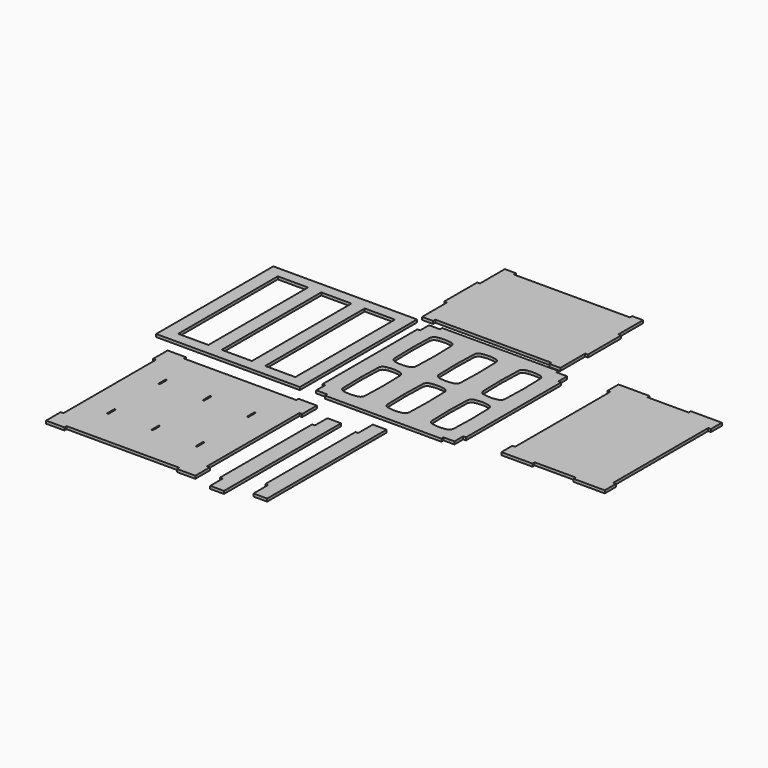
from build123d import *

# Parameters (mm, degrees)
F1_DEPTH  = 3
F2_W      = 157
F2_H      = 160
F2_W_2    = 33
F2_H_2    = 136
F3_DEPTH  = 3
F4_W      = 1.5
F4_H      = 10
F5_DEPTH  = 3
F7_DEPTH  = 3
F9_DEPTH  = 3
F11_DEPTH = 3
F13_DEPTH = 3


with BuildPart() as f1:
    # F0 (on Top) → F1 (new body)
    with BuildSketch(Plane.XY):
        Polygon((112, 115), (-15, 115), (-15, 112), (-27, 112), (-27, 100), (-30, 100), (-30, -30), (-27, -30), (-27, -42), (-15, -42), (-15, -45), (112, -45), (112, -42), (124, -42), (124, -30), (127, -30), (127, 100), (124, 100), (124, 112), (112, 112), align=None)
        with BuildLine():
            Line((-7.700771, 28.68923), (-5.03398, 29.143152))
            ThreePointArc((-5.03398, 29.143152), (0, 29.568517), (5.03398, 29.143152))
            Line((5.03398, 29.143152), (7.700771, 28.68923))
            ThreePointArc((7.700771, 28.68923), (10.638914, 27.036283), (11.859982, 23.894005))
            Line((11.859982, 23.894005), (12.464139, 1.338806))
            ThreePointArc((12.464139, 1.338806), (12.482066, 0), (12.464139, -1.338806))
            Line((12.464139, -1.338806), (11.859982, -23.894005))
            ThreePointArc((11.859982, -23.894005), (10.638914, -27.036283), (7.700771, -28.68923))
            Line((7.700771, -28.68923), (5.03398, -29.143152))
            ThreePointArc((5.03398, -29.143152), (0, -29.568517), (-5.03398, -29.143152))
            Line((-5.03398, -29.143152), (-7.700771, -28.68923))
            ThreePointArc((-7.700771, -28.68923), (-10.638914, -27.036283), (-11.859982, -23.894005))
            Line((-11.859982, -23.894005), (-12.464139, -1.338806))
            ThreePointArc((-12.464139, -1.338806), (-12.482066, 0), (-12.464139, 1.338806))
            Line((-12.464139, 1.338806), (-11.859982, 23.894005))
            ThreePointArc((-11.859982, 23.894005), (-10.638914, 27.036283), (-7.700771, 28.68923))
        make_face(mode=Mode.SUBTRACT)
        with BuildLine():
            ThreePointArc((60.964139, 1.338806), (60.982066, 0), (60.964139, -1.338806))
            Line((60.964139, -1.338806), (60.359982, -23.894005))
            ThreePointArc((60.359982, -23.894005), (59.138914, -27.036283), (56.200771, -28.68923))
            Line((56.200771, -28.68923), (53.53398, -29.143152))
            ThreePointArc((53.53398, -29.143152), (48.5, -29.568517), (43.46602, -29.143152))
            Line((43.46602, -29.143152), (40.799229, -28.68923))
            ThreePointArc((40.799229, -28.68923), (37.861086, -27.036283), (36.640018, -23.894005))
            Line((36.640018, -23.894005), (36.035861, -1.338806))
            ThreePointArc((36.035861, -1.338806), (36.017934, 0), (36.035861, 1.338806))
            Line((36.035861, 1.338806), (36.640018, 23.894005))
            ThreePointArc((36.640018, 23.894005), (37.861086, 27.036283), (40.799229, 28.68923))
            Line((40.799229, 28.68923), (43.46602, 29.143152))
            ThreePointArc((43.46602, 29.143152), (48.5, 29.568517), (53.53398, 29.143152))
            Line((53.53398, 29.143152), (56.200771, 28.68923))
            ThreePointArc((56.200771, 28.68923), (59.138914, 27.036283), (60.359982, 23.894005))
            Line((60.359982, 23.894005), (60.964139, 1.338806))
        make_face(mode=Mode.SUBTRACT)
        with BuildLine():
            ThreePointArc((109.464139, 1.338806), (109.482066, 0), (109.464139, -1.338806))
            Line((109.464139, -1.338806), (108.859982, -23.894005))
            ThreePointArc((108.859982, -23.894005), (107.638914, -27.036283), (104.700771, -28.68923))
            Line((104.700771, -28.68923), (102.03398, -29.143152))
            ThreePointArc((102.03398, -29.143152), (97, -29.568517), (91.96602, -29.143152))
            Line((91.96602, -29.143152), (89.299229, -28.68923))
            ThreePointArc((89.299229, -28.68923), (86.361086, -27.036283), (85.140018, -23.894005))
            Line((85.140018, -23.894005), (84.535861, -1.338806))
            ThreePointArc((84.535861, -1.338806), (84.517934, 0), (84.535861, 1.338806))
            Line((84.535861, 1.338806), (85.140018, 23.894005))
            ThreePointArc((85.140018, 23.894005), (86.361086, 27.036283), (89.299229, 28.68923))
            Line((89.299229, 28.68923), (91.96602, 29.143152))
            ThreePointArc((91.96602, 29.143152), (97, 29.568517), (102.03398, 29.143152))
            Line((102.03398, 29.143152), (104.700771, 28.68923))
            ThreePointArc((104.700771, 28.68923), (107.638914, 27.036283), (108.859982, 23.894005))
            Line((108.859982, 23.894005), (109.464139, 1.338806))
        make_face(mode=Mode.SUBTRACT)
        with BuildLine():
            ThreePointArc((12.464139, 71.338806), (12.482066, 70), (12.464139, 68.661194))
            Line((12.464139, 68.661194), (11.859982, 46.105995))
            ThreePointArc((11.859982, 46.105995), (10.638914, 42.963717), (7.700771, 41.31077))
            Line((7.700771, 41.31077), (5.03398, 40.856848))
            ThreePointArc((5.03398, 40.856848), (0, 40.431483), (-5.03398, 40.856848))
            Line((-5.03398, 40.856848), (-7.700771, 41.31077))
            ThreePointArc((-7.700771, 41.31077), (-10.638914, 42.963717), (-11.859982, 46.105995))
            Line((-11.859982, 46.105995), (-12.464139, 68.661194))
            ThreePointArc((-12.464139, 68.661194), (-12.482066, 70), (-12.464139, 71.338806))
            Line((-12.464139, 71.338806), (-11.859982, 93.894005))
            ThreePointArc((-11.859982, 93.894005), (-10.638914, 97.036283), (-7.700771, 98.68923))
            Line((-7.700771, 98.68923), (-5.03398, 99.143152))
            ThreePointArc((-5.03398, 99.143152), (0, 99.568517), (5.03398, 99.143152))
            Line((5.03398, 99.143152), (7.700771, 98.68923))
            ThreePointArc((7.700771, 98.68923), (10.638914, 97.036283), (11.859982, 93.894005))
            Line((11.859982, 93.894005), (12.464139, 71.338806))
        make_face(mode=Mode.SUBTRACT)
        with BuildLine():
            ThreePointArc((60.964139, 71.338806), (60.982066, 70), (60.964139, 68.661194))
            Line((60.964139, 68.661194), (60.359982, 46.105995))
            ThreePointArc((60.359982, 46.105995), (59.138914, 42.963717), (56.200771, 41.31077))
            Line((56.200771, 41.31077), (53.53398, 40.856848))
            ThreePointArc((53.53398, 40.856848), (48.5, 40.431483), (43.46602, 40.856848))
            Line((43.46602, 40.856848), (40.799229, 41.31077))
            ThreePointArc((40.799229, 41.31077), (37.861086, 42.963717), (36.640018, 46.105995))
            Line((36.640018, 46.105995), (36.035861, 68.661194))
            ThreePointArc((36.035861, 68.661194), (36.017934, 70), (36.035861, 71.338806))
            Line((36.035861, 71.338806), (36.640018, 93.894005))
            ThreePointArc((36.640018, 93.894005), (37.861086, 97.036283), (40.799229, 98.68923))
            Line((40.799229, 98.68923), (43.46602, 99.143152))
            ThreePointArc((43.46602, 99.143152), (48.5, 99.568517), (53.53398, 99.143152))
            Line((53.53398, 99.143152), (56.200771, 98.68923))
            ThreePointArc((56.200771, 98.68923), (59.138914, 97.036283), (60.359982, 93.894005))
            Line((60.359982, 93.894005), (60.964139, 71.338806))
        make_face(mode=Mode.SUBTRACT)
        with BuildLine():
            ThreePointArc((109.464139, 71.338806), (109.482066, 70), (109.464139, 68.661194))
            Line((109.464139, 68.661194), (108.859982, 46.105995))
            ThreePointArc((108.859982, 46.105995), (107.638914, 42.963717), (104.700771, 41.31077))
            Line((104.700771, 41.31077), (102.03398, 40.856848))
            ThreePointArc((102.03398, 40.856848), (97, 40.431483), (91.96602, 40.856848))
            Line((91.96602, 40.856848), (89.299229, 41.31077))
            ThreePointArc((89.299229, 41.31077), (86.361086, 42.963717), (85.140018, 46.105995))
            Line((85.140018, 46.105995), (84.535861, 68.661194))
            ThreePointArc((84.535861, 68.661194), (84.517934, 70), (84.535861, 71.338806))
            Line((84.535861, 71.338806), (85.140018, 93.894005))
            ThreePointArc((85.140018, 93.894005), (86.361086, 97.036283), (89.299229, 98.68923))
            Line((89.299229, 98.68923), (91.96602, 99.143152))
            ThreePointArc((91.96602, 99.143152), (97, 99.568517), (102.03398, 99.143152))
            Line((102.03398, 99.143152), (104.700771, 98.68923))
            ThreePointArc((104.700771, 98.68923), (107.638914, 97.036283), (108.859982, 93.894005))
            Line((108.859982, 93.894005), (109.464139, 71.338806))
        make_face(mode=Mode.SUBTRACT)
    extrude(amount=F1_DEPTH)


with BuildPart() as f3:
    # F2 (on Top) → F3 (new body)
    with BuildSketch(Plane.XY):
        with Locations((-120.198927, 33.974683)):
            Rectangle(F2_W, F2_H)
        with Locations((-167.698927, 33.974683)):
            Rectangle(F2_W_2, F2_H_2, mode=Mode.SUBTRACT)
        with Locations((-120.198927, 33.974683)):
            Rectangle(F2_W_2, F2_H_2, mode=Mode.SUBTRACT)
        with Locations((-72.698927, 33.974683)):
            Rectangle(F2_W_2, F2_H_2, mode=Mode.SUBTRACT)
    extrude(amount=F3_DEPTH)


with BuildPart() as f5:
    # F4 (on Top) → F5 (new body)
    with BuildSketch(Plane.XY):
        Polygon((-29.029642, -66.683304), (-152.029642, -66.683304), (-152.029642, -63.683304), (-172.029642, -63.683304), (-172.029642, -83.683304), (-169.029642, -83.683304), (-169.029642, -209.683304), (-172.029642, -209.683304), (-172.029642, -229.683304), (-152.029642, -229.683304), (-152.029642, -226.683304), (-29.029642, -226.683304), (-29.029642, -229.683304), (-9.029642, -229.683304), (-9.029642, -209.683304), (-12.029642, -209.683304), (-12.029642, -83.683304), (-9.029642, -83.683304), (-9.029642, -63.683304), (-29.029642, -63.683304), align=None)
        with Locations((-139.029642, -181.683304)):
            Rectangle(F4_W, F4_H, mode=Mode.SUBTRACT)
        with Locations((-90.529642, -181.683304)):
            Rectangle(F4_W, F4_H, mode=Mode.SUBTRACT)
        with Locations((-42.029642, -181.683304)):
            Rectangle(F4_W, F4_H, mode=Mode.SUBTRACT)
        with Locations((-139.029642, -111.683304)):
            Rectangle(F4_W, F4_H, mode=Mode.SUBTRACT)
        with Locations((-90.529642, -111.683304)):
            Rectangle(F4_W, F4_H, mode=Mode.SUBTRACT)
        with Locations((-42.029642, -111.683304)):
            Rectangle(F4_W, F4_H, mode=Mode.SUBTRACT)
    extrude(amount=F5_DEPTH)


with BuildPart() as f7:
    # F6 (on Top) → F7 (new body)
    with BuildSketch(Plane.XY):
        Polygon((27.585356, -76.28595), (12.585356, -76.28595), (12.585356, -93.28595), (9.585356, -93.28595), (9.585356, -219.28595), (12.585356, -219.28595), (12.585356, -236.28595), (27.585356, -236.28595), align=None)
    extrude(amount=F7_DEPTH)


with BuildPart() as f9:
    # F8 (on Top) → F9 (new body)
    with BuildSketch(Plane.XY):
        Polygon((65.234423, -61.303756), (50.234423, -61.303756), (50.234423, -81.303756), (47.234423, -81.303756), (47.234423, -204.303756), (50.234423, -204.303756), (50.234423, -224.303756), (65.234423, -224.303756), align=None)
    extrude(amount=F9_DEPTH)


with BuildPart() as f11:
    # F10 (on Top) → F11 (new body)
    with BuildSketch(Plane.XY):
        Polygon((201.633421, 127.508516), (170.602584, 127.508516), (167.633421, 127.508516), (167.633421, 112.508516), (170.633421, 112.508516), (170.633421, -17.491484), (167.633421, -17.491484), (167.633421, -32.491484), (170.602584, -32.491484), (201.633421, -32.491484), (201.633421, -29.491484), (246.633421, -29.491484), (246.633421, -32.491484), (277.602584, -32.491484), (280.633421, -32.491484), (280.633421, -17.491484), (277.633421, -17.491484), (277.633421, 112.508516), (280.633421, 112.508516), (280.633421, 127.508516), (277.602584, 127.508516), (246.633421, 127.508516), (246.633421, 124.508516), (201.633421, 124.508516), align=None)
    extrude(amount=F11_DEPTH)


with BuildPart() as f13:
    # F12 (on Top) → F13 (new body)
    with BuildSketch(Plane.XY):
        Polygon((-41.256731, 154.404768), (-41.256731, 120.404768), (-29.256731, 120.404768), (-29.256731, 123.404768), (97.743269, 123.14288), (97.743269, 120.404768), (109.743269, 120.404768), (109.743269, 154.404768), (112.743269, 154.404768), (112.743269, 199.404768), (109.743269, 199.404768), (109.743269, 233.404768), (97.743269, 233.404768), (97.743269, 230.404768), (-29.256731, 230.404768), (-29.256731, 233.404768), (-41.256731, 233.404768), (-41.256731, 199.404768), (-44.256731, 199.404768), (-44.256731, 154.404768), align=None)
    extrude(amount=F13_DEPTH)


solid = Compound([f1.part, f3.part, f5.part, f7.part, f9.part, f11.part, f13.part])
